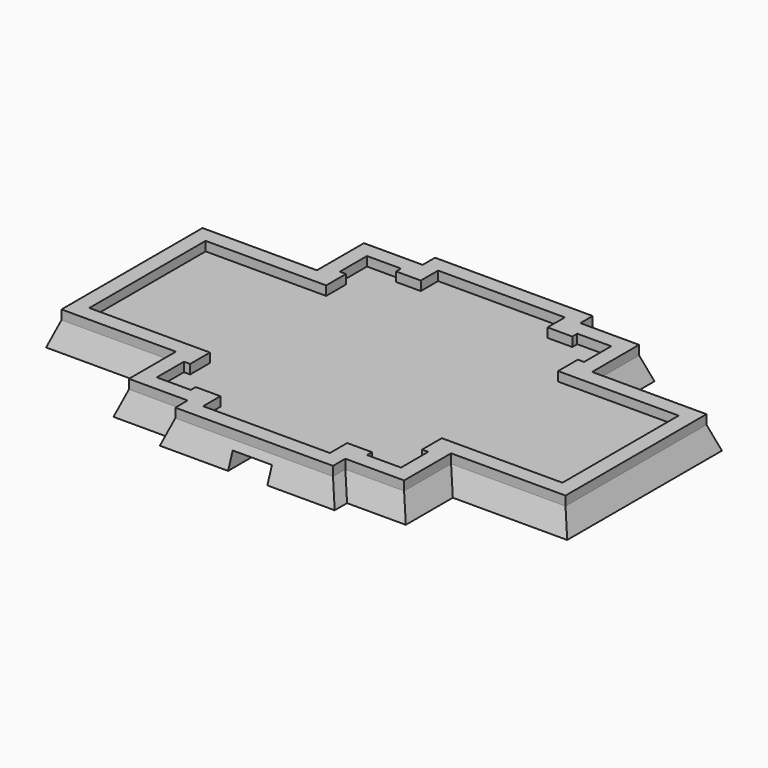
from build123d import *

# Parameters (mm, degrees)
F1_DEPTH = 3
F2_DEPTH = 7.62
F2_TAPER = -20
F4_DEPTH = 5.08


with BuildPart() as f1:
    # F0 (on Top) → F1 (new body)
    with BuildSketch(Plane.XY):
        Polygon((51.7914976329, 55.718055591), (32.7914976329, 55.718055591), (32.7914976329, 60.718055591), (7.2914976329, 60.718055591), (-18.2085023671, 60.718055591), (-18.2085023671, 55.718055591), (-37.2085023671, 55.718055591), (-37.2085023671, 36.718055591), (-74.2085023671, 36.718055591), (-74.2085023671, 8.218055591), (-74.2085023671, -20.281944409), (-37.2085023671, -20.281944409), (-37.2085023671, -39.281944409), (-18.2085023671, -39.281944409), (-18.2085023671, -44.281944409), (7.2914976329, -44.281944409), (32.7914976329, -44.281944409), (32.7914976329, -39.281944409), (51.7914976329, -39.281944409), (51.7914976329, -20.281944409), (88.7914976329, -20.281944409), (88.7914976329, 8.218055591), (88.7914976329, 36.718055591), (51.7914976329, 36.718055591), align=None)
        Polygon((-69.2085023671, 8.218055591), (-69.2085023671, 31.718055591), (-30.2085023671, 31.718055591), (-30.2085023671, 39.718055591), (-32.2085023671, 39.718055591), (-32.2085023671, 50.718055591), (-21.2085023671, 50.718055591), (-21.2085023671, 48.718055591), (-13.2085023671, 48.718055591), (-13.2085023671, 55.718055591), (7.2914976329, 55.718055591), (27.7914976329, 55.718055591), (27.7914976329, 48.718055591), (35.7914976329, 48.718055591), (35.7914976329, 50.718055591), (46.7914976329, 50.718055591), (46.7914976329, 39.718055591), (44.7914976329, 39.718055591), (44.7914976329, 31.718055591), (83.7914976329, 31.718055591), (83.7914976329, 8.218055591), (83.7914976329, -15.281944409), (44.7914976329, -15.281944409), (44.7914976329, -23.281944409), (46.7914976329, -23.281944409), (46.7914976329, -34.281944409), (35.7914976329, -34.281944409), (35.7914976329, -32.281944409), (27.7914976329, -32.281944409), (27.7914976329, -39.281944409), (7.2914976329, -39.281944409), (-13.2085023671, -39.281944409), (-13.2085023671, -32.281944409), (-21.2085023671, -32.281944409), (-21.2085023671, -34.281944409), (-32.2085023671, -34.281944409), (-32.2085023671, -23.281944409), (-30.2085023671, -23.281944409), (-30.2085023671, -15.281944409), (-69.2085023671, -15.281944409), align=None, mode=Mode.SUBTRACT)
    extrude(amount=F1_DEPTH)

    # F0 (on Top) → F2 (join)
    with BuildSketch(Plane.XY):
        Polygon((51.7914976329, 55.718055591), (32.7914976329, 55.718055591), (32.7914976329, 60.718055591), (7.2914976329, 60.718055591), (-18.2085023671, 60.718055591), (-18.2085023671, 55.718055591), (-37.2085023671, 55.718055591), (-37.2085023671, 36.718055591), (-74.2085023671, 36.718055591), (-74.2085023671, 8.218055591), (-74.2085023671, -20.281944409), (-37.2085023671, -20.281944409), (-37.2085023671, -39.281944409), (-18.2085023671, -39.281944409), (-18.2085023671, -44.281944409), (7.2914976329, -44.281944409), (32.7914976329, -44.281944409), (32.7914976329, -39.281944409), (51.7914976329, -39.281944409), (51.7914976329, -20.281944409), (88.7914976329, -20.281944409), (88.7914976329, 8.218055591), (88.7914976329, 36.718055591), (51.7914976329, 36.718055591), align=None)
        Polygon((-69.2085023671, 8.218055591), (-69.2085023671, 31.718055591), (-30.2085023671, 31.718055591), (-30.2085023671, 39.718055591), (-32.2085023671, 39.718055591), (-32.2085023671, 50.718055591), (-21.2085023671, 50.718055591), (-21.2085023671, 48.718055591), (-13.2085023671, 48.718055591), (-13.2085023671, 55.718055591), (7.2914976329, 55.718055591), (27.7914976329, 55.718055591), (27.7914976329, 48.718055591), (35.7914976329, 48.718055591), (35.7914976329, 50.718055591), (46.7914976329, 50.718055591), (46.7914976329, 39.718055591), (44.7914976329, 39.718055591), (44.7914976329, 31.718055591), (83.7914976329, 31.718055591), (83.7914976329, 8.218055591), (83.7914976329, -15.281944409), (44.7914976329, -15.281944409), (44.7914976329, -23.281944409), (46.7914976329, -23.281944409), (46.7914976329, -34.281944409), (35.7914976329, -34.281944409), (35.7914976329, -32.281944409), (27.7914976329, -32.281944409), (27.7914976329, -39.281944409), (7.2914976329, -39.281944409), (-13.2085023671, -39.281944409), (-13.2085023671, -32.281944409), (-21.2085023671, -32.281944409), (-21.2085023671, -34.281944409), (-32.2085023671, -34.281944409), (-32.2085023671, -23.281944409), (-30.2085023671, -23.281944409), (-30.2085023671, -15.281944409), (-69.2085023671, -15.281944409), align=None, mode=Mode.SUBTRACT)
        Polygon((-30.2085023671, 31.718055591), (-69.2085023671, 31.718055591), (-69.2085023671, 8.218055591), (-69.2085023671, -15.281944409), (-30.2085023671, -15.281944409), (-30.2085023671, -23.281944409), (-32.2085023671, -23.281944409), (-32.2085023671, -34.281944409), (-21.2085023671, -34.281944409), (-21.2085023671, -32.281944409), (-13.2085023671, -32.281944409), (-13.2085023671, -39.281944409), (7.2914976329, -39.281944409), (27.7914976329, -39.281944409), (27.7914976329, -32.281944409), (35.7914976329, -32.281944409), (35.7914976329, -34.281944409), (46.7914976329, -34.281944409), (46.7914976329, -23.281944409), (44.7914976329, -23.281944409), (44.7914976329, -15.281944409), (83.7914976329, -15.281944409), (83.7914976329, 8.218055591), (83.7914976329, 31.718055591), (44.7914976329, 31.718055591), (44.7914976329, 39.718055591), (46.7914976329, 39.718055591), (46.7914976329, 50.718055591), (35.7914976329, 50.718055591), (35.7914976329, 48.718055591), (27.7914976329, 48.718055591), (27.7914976329, 55.718055591), (7.2914976329, 55.718055591), (-13.2085023671, 55.718055591), (-13.2085023671, 48.718055591), (-21.2085023671, 48.718055591), (-21.2085023671, 50.718055591), (-32.2085023671, 50.718055591), (-32.2085023671, 39.718055591), (-30.2085023671, 39.718055591), align=None)
    extrude(amount=-F2_DEPTH, taper=F2_TAPER)

    # F3 (on face) → F4 (cut)
    with BuildSketch(Plane(origin=(0, 0, -7.62), x_dir=(1, 0, 0), z_dir=(0, 0, -1))):
        Polygon((-28.4716319293, 14.2964404076), (-67.0940428972, 14.2964404076), (-67.0940428972, -30.6183788925), (-28.4716319293, -30.6183788925), (-28.4716319293, -46.6748848557), (43.3486886322, -46.6748848557), (43.3486886322, -30.6183788925), (81.9710996002, -30.6183788925), (81.9710996002, 14.2964404076), (43.3486886322, 14.2964404076), (37.6397153199, 14.2964404076), (37.6397153199, 30.3529463708), (13.7885283515, 30.3529463708), (13.7885283515, 47.0553975941), (1.0885283515, 47.0553975941), (1.0885283515, 30.3529463708), (-22.7626586169, 30.3529463708), (-22.7626586169, 14.2964404076), align=None)
    extrude(amount=-F4_DEPTH, mode=Mode.SUBTRACT)


solid = f1.part
